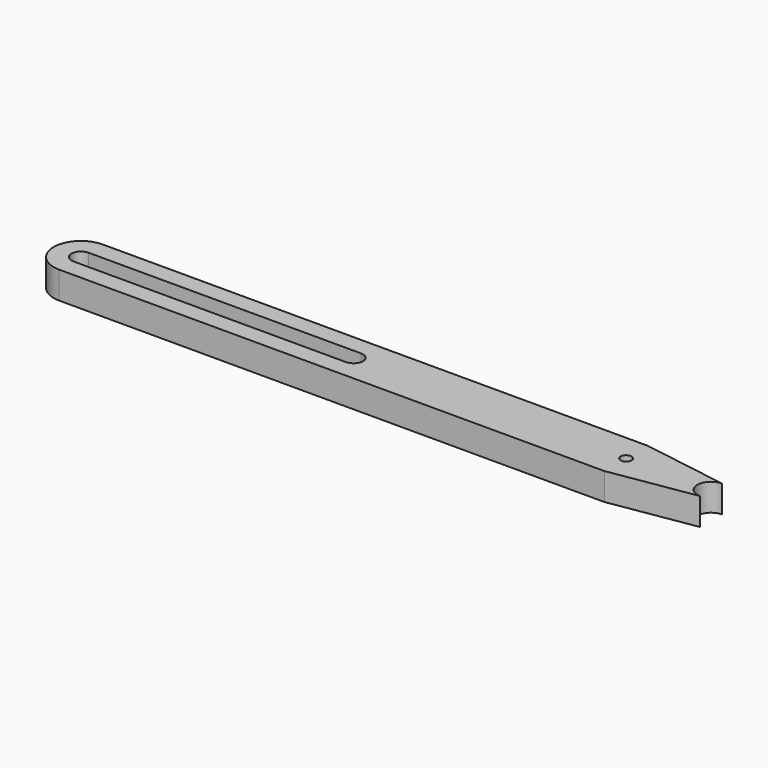
from build123d import *

# Parameters (mm, degrees)
F0_R     = 1
F1_DEPTH = 5


with BuildPart() as f1:
    # F0 (on Top) → F1 (new body)
    with BuildSketch(Plane.XY):
        with BuildLine():
            Line((65.573402, 2.5), (50, 5))
            Line((50, 5), (-50, 5))
            ThreePointArc((-50, 5), (-55, 0), (-50, -5))
            Line((-50, -5), (50, -5))
            Line((50, -5), (65.573402, -2.5))
            ThreePointArc((65.573402, -2.5), (63.073402, 0), (65.573402, 2.5))
        make_face()
        with BuildLine():
            ThreePointArc((-50, -1.729847), (-51.729847, 0), (-50, 1.729847))
            Line((-50, 1.729847), (0, 1.729847))
            ThreePointArc((0, 1.729847), (1.729847, 0), (0, -1.729847))
            Line((0, -1.729847), (-50, -1.729847))
        make_face(mode=Mode.SUBTRACT)
        with Locations((50, 0)):
            Circle(F0_R, mode=Mode.SUBTRACT)
    extrude(amount=F1_DEPTH)


solid = f1.part
